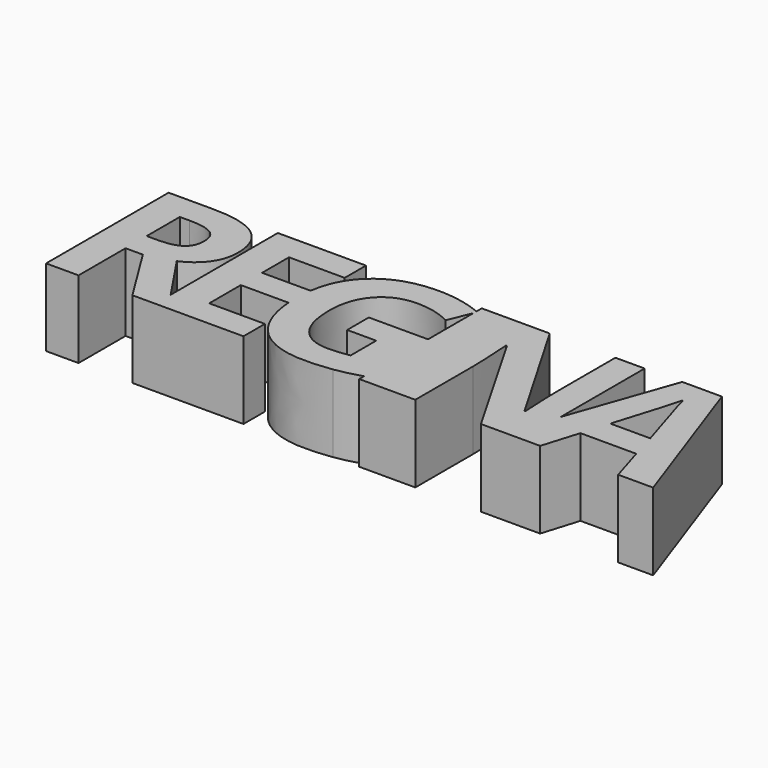
from build123d import *

# Parameters (mm, degrees)
F0_W     = 0.703125
F0_H     = 19.8307291667
F1_DEPTH = 10


with BuildPart() as f1:
    # F0 (on Top) → F1 (new body)
    with BuildSketch(Plane.XY):
        with BuildLine():
            Line((-42.8701766354, 0), (-42.8701766354, 7.6085069444))
            Line((-42.8701766354, 7.6085069444), (-40.6349335799, 7.6085069444))
            Line((-40.6349335799, 7.6085069444), (-35.8996905243, 0))
            Line((-35.8996905243, 0), (-32.9370169132, 0))
            Line((-32.9370169132, 0), (-32.9370169132, 2.4971721643))
            add(Edge.make_bspline(
                [(-37.0672252465, 8.6414930556), (-34.4813623275, 4.7802384448), (-32.9370169132, 2.4971721643)],
                knots=[0, 0, 0, 0.5773089308, 0.5773089308, 0.5773089308], degree=2))
            add(Edge.make_bspline(
                [(-34.3393606632, 10.7769097222), (-35.300732191, 9.4140625), (-37.0672252465, 8.6414930556)],
                knots=[0, 0, 0, 1, 1, 1], degree=2))
            add(Edge.make_bspline(
                [(-33.3779891354, 13.8888888889), (-33.3779891354, 12.1397569444), (-34.3393606632, 10.7769097222)],
                knots=[0, 0, 0, 1, 1, 1], degree=2))
            add(Edge.make_bspline(
                [(-35.3159231632, 18.359375), (-33.3779891354, 16.8880208333), (-33.3779891354, 13.8888888889)],
                knots=[0, 0, 0, 1, 1, 1], degree=2))
            add(Edge.make_bspline(
                [(-41.2989960799, 19.8307291667), (-37.253857191, 19.8307291667), (-35.3159231632, 18.359375)],
                knots=[0, 0, 0, 1, 1, 1], degree=2))
            Line((-41.2989960799, 19.8307291667), (-47.0759058021, 19.8307291667))
            Line((-47.0759058021, 19.8307291667), (-47.0759058021, 0))
            Line((-47.0759058021, 0), (-42.8701766354, 0))
        make_face()
        with BuildLine():
            Line((-41.5160099688, 11.0286458333), (-42.8701766354, 11.0286458333))
            Line((-42.8701766354, 11.0286458333), (-42.8701766354, 16.3845486111))
            Line((-42.8701766354, 16.3845486111), (-41.5941349688, 16.3845486111))
            add(Edge.make_bspline(
                [(-38.5928328854, 15.7877604167), (-39.5628849688, 16.3845486111), (-41.5941349688, 16.3845486111)],
                knots=[0, 0, 0, 1, 1, 1], degree=2))
            add(Edge.make_bspline(
                [(-37.6227808021, 13.7803819444), (-37.6227808021, 15.1909722222), (-38.5928328854, 15.7877604167)],
                knots=[0, 0, 0, 1, 1, 1], degree=2))
            add(Edge.make_bspline(
                [(-38.5711314965, 11.6927083333), (-37.6227808021, 12.3567708333), (-37.6227808021, 13.7803819444)],
                knots=[0, 0, 0, 1, 1, 1], degree=2))
            add(Edge.make_bspline(
                [(-41.5160099688, 11.0286458333), (-39.519482191, 11.0286458333), (-38.5711314965, 11.6927083333)],
                knots=[0, 0, 0, 1, 1, 1], degree=2))
        make_face(mode=Mode.SUBTRACT)
        with BuildLine():
            Line((-32.9370169132, 2.4971721643), (-32.9370169132, 0))
            Line((-32.9370169132, 0), (-31.2338919132, 0))
            add(Edge.make_bspline(
                [(-32.9370169132, 2.4971721643), (-31.8062860695, 0.8255684946), (-31.2338919132, 0)],
                knots=[0.5773089308, 0.5773089308, 0.5773089308, 1, 1, 1], degree=2))
        make_face()
        with BuildLine():
            add(Edge.make_bspline(
                [(-32.9370169132, 2.4971721643), (-31.8062860695, 0.8255684946), (-31.2338919132, 0)],
                knots=[0.5773089308, 0.5773089308, 0.5773089308, 1, 1, 1], degree=2))
            Line((-31.2338919132, 0), (-21.5177460799, 0))
            Line((-21.5177460799, 0), (-21.5177460799, 3.4722222222))
            Line((-21.5177460799, 3.4722222222), (-28.7312877465, 3.4722222222))
            Line((-28.7312877465, 3.4722222222), (-28.7312877465, 8.5850694444))
            Line((-28.7312877465, 8.5850694444), (-22.5540500408, 8.5850694444))
            add(Edge.make_bspline(
                [(-22.5540500408, 8.5850694444), (-22.6019474688, 9.2410546886), (-22.6019474688, 9.9435763889)],
                knots=[0.8577671355, 0.8577671355, 0.8577671355, 1, 1, 1], degree=2))
            add(Edge.make_bspline(
                [(-22.6019474688, 9.9435763889), (-22.6019474688, 11.042896907), (-22.4578605353, 12.03125)],
                knots=[0, 0, 0, 0.2290085419, 0.2290085419, 0.2290085419], degree=2))
            Line((-22.4578605353, 12.03125), (-28.7312877465, 12.03125))
            Line((-28.7312877465, 12.03125), (-28.7312877465, 16.3845486111))
            Line((-28.7312877465, 16.3845486111), (-21.5177460799, 16.3845486111))
            Line((-21.5177460799, 16.3845486111), (-21.5177460799, 19.8307291667))
            Line((-21.5177460799, 19.8307291667), (-32.9370169132, 19.8307291667))
            Line((-32.9370169132, 19.8307291667), (-32.9370169132, 2.4971721643))
        make_face()
        with BuildLine():
            add(Edge.make_bspline(
                [(-22.5540500408, 8.5850694444), (-22.6019474688, 9.2410546886), (-22.6019474688, 9.9435763889)],
                knots=[0.8577671355, 0.8577671355, 0.8577671355, 1, 1, 1], degree=2))
            Line((-22.5540500408, 8.5850694444), (-22.0168780243, 8.5850694444))
            Line((-22.0168780243, 8.5850694444), (-22.0168780243, 12.03125))
            Line((-22.0168780243, 12.03125), (-22.4578605353, 12.03125))
            add(Edge.make_bspline(
                [(-22.6019474688, 9.9435763889), (-22.6019474688, 11.042896907), (-22.4578605353, 12.03125)],
                knots=[0, 0, 0, 0.2290085419, 0.2290085419, 0.2290085419], degree=2))
        make_face()
        with BuildLine():
            Line((-22.0168780243, 8.5850694444), (-22.5540500408, 8.5850694444))
            add(Edge.make_bspline(
                [(-20.234325941, 2.3654513889), (-22.2651938769, 4.6290035521), (-22.5540500408, 8.5850694444)],
                knots=[0, 0, 0, 0.8577671355, 0.8577671355, 0.8577671355], degree=2))
            add(Edge.make_bspline(
                [(-13.378857191, -0.2734375), (-17.8667044132, -0.2734375), (-20.234325941, 2.3654513889)],
                knots=[0, 0, 0, 1, 1, 1], degree=2))
            add(Edge.make_bspline(
                [(-9.9283363577, -0.0217013889), (-11.6167044132, -0.2734375), (-13.378857191, -0.2734375)],
                knots=[0, 0, 0, 1, 1, 1], degree=2))
            add(Edge.make_bspline(
                [(-6.5290308021, 0.7895569413), (-8.3298372028, 0.216635246), (-9.9283363577, -0.0217013889)],
                knots=[0.0532282641, 0.0532282641, 0.0532282641, 1, 1, 1], degree=2))
            Line((-6.5290308021, 0.7895569413), (-6.5290308021, 11.1371527778))
            Line((-6.5290308021, 11.1371527778), (-14.1948294132, 11.1371527778))
            Line((-14.1948294132, 11.1371527778), (-14.1948294132, 7.6345486111))
            Line((-14.1948294132, 7.6345486111), (-10.4361488577, 7.6345486111))
            Line((-10.4361488577, 7.6345486111), (-10.4361488577, 3.4982638889))
            add(Edge.make_bspline(
                [(-13.1097599688, 3.2291666667), (-11.7903155243, 3.2291666667), (-10.4361488577, 3.4982638889)],
                knots=[0, 0, 0, 1, 1, 1], degree=2))
            add(Edge.make_bspline(
                [(-16.953075941, 4.9305555556), (-15.6314613577, 3.2291666667), (-13.1097599688, 3.2291666667)],
                knots=[0, 0, 0, 1, 1, 1], degree=2))
            add(Edge.make_bspline(
                [(-18.2746905243, 9.8611111111), (-18.2746905243, 6.6319444444), (-16.953075941, 4.9305555556)],
                knots=[0, 0, 0, 1, 1, 1], degree=2))
            add(Edge.make_bspline(
                [(-16.6340655243, 14.7829861111), (-18.2746905243, 12.9513888889), (-18.2746905243, 9.8611111111)],
                knots=[0, 0, 0, 1, 1, 1], degree=2))
            add(Edge.make_bspline(
                [(-12.2677460799, 16.6145833333), (-14.9934405243, 16.6145833333), (-16.6340655243, 14.7829861111)],
                knots=[0, 0, 0, 1, 1, 1], degree=2))
            add(Edge.make_bspline(
                [(-7.7495169132, 15.5295138889), (-9.9196558021, 16.6145833333), (-12.2677460799, 16.6145833333)],
                knots=[0, 0, 0, 1, 1, 1], degree=2))
            Line((-7.7495169132, 15.5295138889), (-6.5290308021, 18.4670192805))
            Line((-6.5290308021, 18.4670192805), (-6.5290308021, 18.9681518024))
            add(Edge.make_bspline(
                [(-12.2417044132, 20.1128472222), (-9.2814895535, 20.1128472222), (-6.5290308021, 18.9681518024)],
                knots=[0, 0, 0, 0.9687975904, 0.9687975904, 0.9687975904], degree=2))
            add(Edge.make_bspline(
                [(-19.8545516354, 17.4283854167), (-17.1071558021, 20.1128472222), (-12.2417044132, 20.1128472222)],
                knots=[0, 0, 0, 1, 1, 1], degree=2))
            add(Edge.make_bspline(
                [(-22.4578605353, 12.03125), (-21.9727703549, 15.358688295), (-19.8545516354, 17.4283854167)],
                knots=[0.2290085419, 0.2290085419, 0.2290085419, 1, 1, 1], degree=2))
            Line((-22.4578605353, 12.03125), (-22.0168780243, 12.03125))
            Line((-22.0168780243, 12.03125), (-22.0168780243, 8.5850694444))
        make_face()
        with BuildLine():
            Line((-6.5290308021, 11.1371527778), (-6.5290308021, 0.7895569413))
            add(Edge.make_bspline(
                [(-6.3259058021, 0.8550347222), (-6.4277880263, 0.8217670572), (-6.5290308021, 0.7895569413)],
                knots=[0, 0, 0, 0.0532282641, 0.0532282641, 0.0532282641], degree=2))
            Line((-6.3259058021, 0.8550347222), (-6.3259058021, 11.1371527778))
            Line((-6.3259058021, 11.1371527778), (-6.5290308021, 11.1371527778))
        make_face()
        with BuildLine():
            add(Edge.make_bspline(
                [(-6.3259058021, 0.8550347222), (-6.4277880263, 0.8217670572), (-6.5290308021, 0.7895569413)],
                knots=[0, 0, 0, 0.0532282641, 0.0532282641, 0.0532282641], degree=2))
            Line((-6.5290308021, 0.7895569413), (-6.5290308021, 0))
            Line((-6.5290308021, 0), (-3.0264266354, 0))
            Line((-3.0264266354, 0), (-3.0264266354, 19.8307291667))
            Line((-3.0264266354, 19.8307291667), (-6.5290308021, 19.8307291667))
            Line((-6.5290308021, 19.8307291667), (-6.5290308021, 18.9681518024))
            add(Edge.make_bspline(
                [(-6.5290308021, 18.9681518024), (-6.4403813813, 18.9312841887), (-6.3519474688, 18.8932291667)],
                knots=[0.9687975904, 0.9687975904, 0.9687975904, 1, 1, 1], degree=2))
            Line((-6.3519474688, 18.8932291667), (-6.5290308021, 18.4670192805))
            Line((-6.5290308021, 18.4670192805), (-6.5290308021, 11.1371527778))
            Line((-6.5290308021, 11.1371527778), (-6.3259058021, 11.1371527778))
            Line((-6.3259058021, 11.1371527778), (-6.3259058021, 0.8550347222))
        make_face()
        with BuildLine():
            add(Edge.make_bspline(
                [(-6.5290308021, 18.9681518024), (-6.4403813813, 18.9312841887), (-6.3519474688, 18.8932291667)],
                knots=[0.9687975904, 0.9687975904, 0.9687975904, 1, 1, 1], degree=2))
            Line((-6.5290308021, 18.9681518024), (-6.5290308021, 18.4670192805))
            Line((-6.5290308021, 18.4670192805), (-6.3519474688, 18.8932291667))
        make_face()
        with Locations((-2.6748641354, 9.9153645833)):
            Rectangle(F0_W, F0_H)
        with BuildLine():
            Line((-2.3233016354, 19.8307291667), (-2.3233016354, 0))
            Line((-2.3233016354, 0), (0.7322539201, 0))
            Line((0.7322539201, 0), (0.7322539201, 9.3315972222))
            add(Edge.make_bspline(
                [(0.4718372535, 15), (0.7322539201, 11.0286458333), (0.7322539201, 9.3315972222)],
                knots=[0, 0, 0, 1, 1, 1], degree=2))
            Line((0.4718372535, 15), (0.5933650312, 15))
            Line((0.5933650312, 15), (9.2218372535, 0))
            Line((9.2218372535, 0), (12.3659344757, 0))
            Line((12.3659344757, 0), (14.5647191979, 6.2541998175))
            Line((14.5647191979, 6.2541998175), (14.5647191979, 19.8307291667))
            Line((14.5647191979, 19.8307291667), (10.7799969757, 19.8307291667))
            Line((10.7799969757, 19.8307291667), (10.7799969757, 10.4427083333))
            add(Edge.make_bspline(
                [(10.9839900312, 4.9782986111), (10.7799969757, 8.8454861111), (10.7799969757, 10.4427083333)],
                knots=[0, 0, 0, 1, 1, 1], degree=2))
            Line((10.9839900312, 4.9782986111), (10.8885039201, 4.9782986111))
            Line((10.8885039201, 4.9782986111), (2.277392809, 19.8307291667))
            Line((2.277392809, 19.8307291667), (-2.3233016354, 19.8307291667))
        make_face()
        Polygon((14.5647191979, 6.2541998175), (12.3659344757, 0), (14.5647191979, 0), align=None)
        Polygon((14.5647191979, 6.2541998175), (14.5647191979, 0), (16.8971844757, 0), (18.3338164201, 4.7222222222), (25.5647191979, 4.7222222222), (27.0013511423, 0), (31.5326011423, 0), (24.5056914201, 19.9131944444), (19.3668025312, 19.9131944444), align=None)
        with BuildLine():
            add(Edge.make_bspline(
                [(24.5577747535, 8.2465277778), (22.5655872535, 14.6614583333), (22.3138511423, 15.5034722222)],
                knots=[0, 0, 0, 1, 1, 1], degree=2))
            Line((24.5577747535, 8.2465277778), (19.3928441979, 8.2465277778))
            add(Edge.make_bspline(
                [(21.9536080868, 16.8315972222), (21.5065594757, 15.0954861111), (19.3928441979, 8.2465277778)],
                knots=[0, 0, 0, 1, 1, 1], degree=2))
            add(Edge.make_bspline(
                [(22.3138511423, 15.5034722222), (22.0621150312, 16.3454861111), (21.9536080868, 16.8315972222)],
                knots=[0, 0, 0, 1, 1, 1], degree=2))
        make_face(mode=Mode.SUBTRACT)
    extrude(amount=F1_DEPTH)


solid = f1.part
